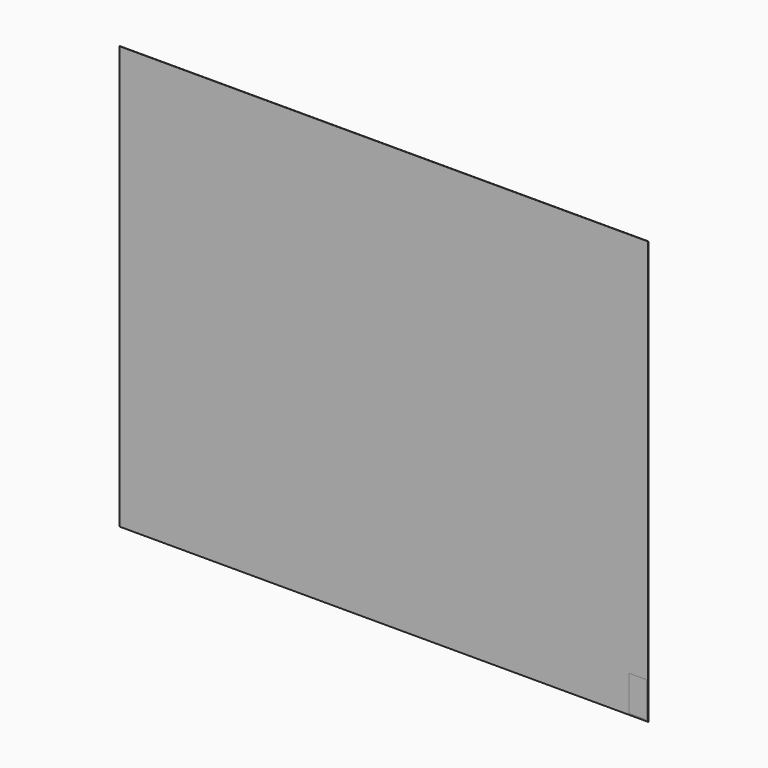
from build123d import *

# Parameters (mm, degrees)
F0_W     = 1524
F0_H     = 1219.2
F2_DEPTH = 0.9652
F1_W     = 50.8
F1_H     = 101.6
F3_DEPTH = 0.9652


with BuildPart() as f2:
    # F0 (on Front) → F2 (new body)
    with BuildSketch(Plane.XZ):
        with Locations((-759.278953, 609.689045)):
            Rectangle(F0_W, F0_H)
    extrude(amount=F2_DEPTH)


with BuildPart() as f3:
    # F1 (on face) → F3 (new body)
    with BuildSketch(Plane.XZ):
        with Locations((-27.320802, 54.909415)):
            Rectangle(F1_W, F1_H)
    extrude(amount=F3_DEPTH)


solid = Compound([f2.part, f3.part])
